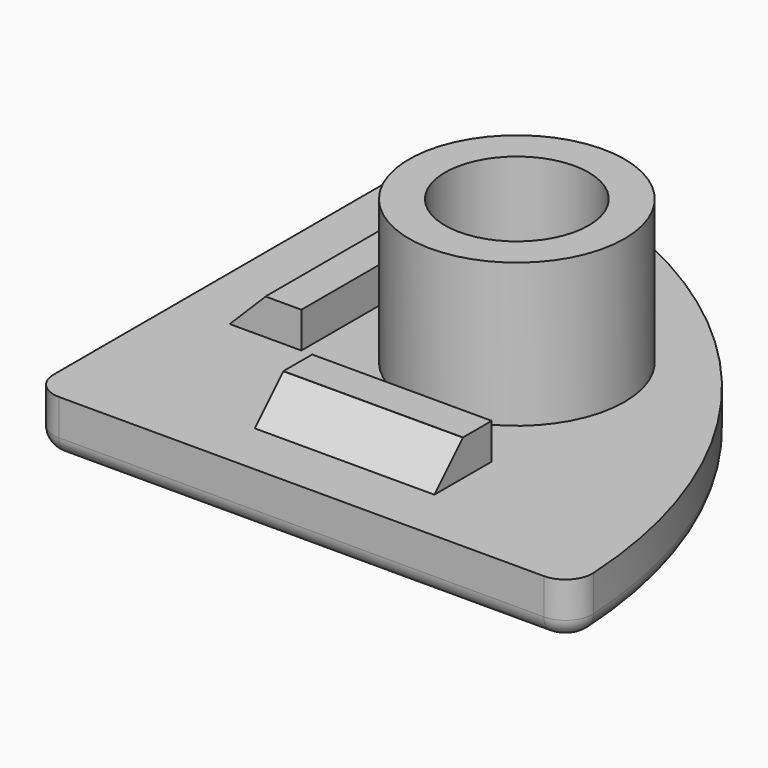
from build123d import *

# Parameters (mm, degrees)
SKETCH_R      = 6
SKETCH_R_2    = 4
PAD_DEPTH     = 8
PAD001_DEPTH  = 3
FILLET_R      = 1.5
FILLET001_R   = 1
SKETCH002_W   = 2
SKETCH002_H   = 10
SKETCH002_W_2 = 10
SKETCH002_H_2 = 2
PAD002_DEPTH  = 2
CHAMFER_SIZE  = 1.99


with BuildPart() as part:
    # Sketch → Pad (new body)
    with BuildSketch(Plane.XY):
        with Locations((15, 15)):
            Circle(SKETCH_R)
        with Locations((15, 15)):
            Circle(SKETCH_R_2, mode=Mode.SUBTRACT)
    extrude(amount=PAD_DEPTH)

    # Sketch001 (on Face3 of Pad) → Pad001 (join)
    with BuildSketch(Plane(origin=(0, 0, 0), x_dir=(1, 0, 0), z_dir=(0, 0, -1))):
        with BuildLine():
            Line((0, -28.504743), (0, 0))
            Line((0, 0), (28.504743, 0))
            ThreePointArc((30.002374, -1.584264), (29.594788, -0.469562), (28.504743, 0))
            ThreePointArc((1.584264, -30.002374), (21.216341, -21.216341), (30.002374, -1.584264))
            ThreePointArc((0, -28.504743), (0.469562, -29.594788), (1.584264, -30.002374))
        make_face()
    extrude(amount=PAD001_DEPTH)

    # Fillet
    fillet_edges = [part.edges().sort_by_distance(p)[0] for p in [
        (0, 0, -1.5),
    ]]
    fillet(fillet_edges, radius=FILLET_R)

    # Fillet001
    fillet001_edges = [part.edges().sort_by_distance(p)[0] for p in [
        (0, 15.002371, -3),
        (0.43934, 0.43934, -3),
        (0.469562, 29.594788, -3),
        (15.002371, 0, -3),
        (21.216341, 21.216341, -3),
        (29.594788, 0.469562, -3),
    ]]
    fillet(fillet001_edges, radius=FILLET001_R)

    # Sketch002 (on Face4 of Fillet001) → Pad002 (join)
    with BuildSketch(Plane.XY):
        with Locations((6, 15)):
            Rectangle(SKETCH002_W, SKETCH002_H)
        with Locations((15, 6)):
            Rectangle(SKETCH002_W_2, SKETCH002_H_2)
    extrude(amount=PAD002_DEPTH)

    # Chamfer
    chamfer_edges = [part.edges().sort_by_distance(p)[0] for p in [
        (5, 15, 0),
        (15, 5, 0),
    ]]
    chamfer(chamfer_edges, length=CHAMFER_SIZE)


solid = part.part
